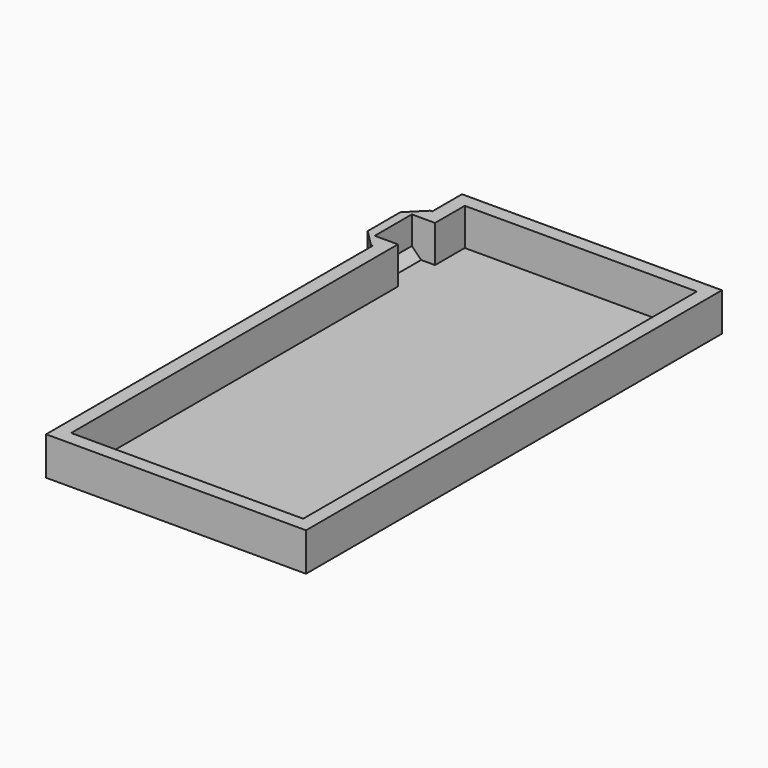
from build123d import *

# Parameters (mm, degrees)
BOX_W           = 28
BOX_H           = 56
BOX_DEPTH       = 0.125
SKETCH004_W     = 1.5
SKETCH004_H     = 45.5
SKETCH004_H_2   = 4
PAD004_DEPTH    = 4
SKETCH005_W     = 28
SKETCH005_H     = 1.5
PAD005_DEPTH    = 4
SKETCH006_W     = 1.5
SKETCH006_H     = 53
PAD006_DEPTH    = 4
SKETCH003_W     = 28
SKETCH003_H     = 1.5
PAD003_DEPTH    = 4
BOX004_W        = 5
BOX004_H        = 5
BOX004_DEPTH    = 5
CHAMFER_SIZE    = 1
BOX002_W        = 2
BOX002_H        = 8
BOX002_DEPTH    = 4.125
CHAMFER001_SIZE = 1.8


with BuildPart() as base:
    # Box → Box (new body)
    with BuildSketch(Plane.XY):
        with Locations((14, 28)):
            Rectangle(BOX_W, BOX_H)
    extrude(amount=BOX_DEPTH)


with BuildPart() as pad004:
    # Sketch004 → Pad004 (new body)
    with BuildSketch(Plane.XY.offset(0.125)):
        with Locations((0.75, 22.75)):
            Rectangle(SKETCH004_W, SKETCH004_H)
        with Locations((0.75, 52.5)):
            Rectangle(SKETCH004_W, SKETCH004_H_2)
    extrude(amount=PAD004_DEPTH)


with BuildPart() as pad005:
    # Sketch005 → Pad005 (new body)
    with BuildSketch(Plane.XY.offset(0.125)):
        with Locations((14, 0.75)):
            Rectangle(SKETCH005_W, SKETCH005_H)
    extrude(amount=PAD005_DEPTH)


with BuildPart() as pad006:
    # Sketch006 → Pad006 (new body)
    with BuildSketch(Plane.XY.offset(0.125)):
        with Locations((27.25, 28)):
            Rectangle(SKETCH006_W, SKETCH006_H)
    extrude(amount=PAD006_DEPTH)


with BuildPart() as walls:
    # Sketch003 → Pad003 (new body)
    with BuildSketch(Plane.XY.offset(0.125)):
        with Locations((14, 55.25)):
            Rectangle(SKETCH003_W, SKETCH003_H)
    extrude(amount=PAD003_DEPTH)

    # Fusion001: union Pad004, Pad005, Pad006
    add(pad004.part)
    add(pad005.part)
    add(pad006.part)


with BuildPart() as chamfer_body:
    # Box004 → Box004 (new body)
    with BuildSketch(Plane(origin=(-1, 45.5, 0.125), x_dir=(1, 0, 0), z_dir=(0, 0, 1))):
        with Locations((2.5, 2.5)):
            Rectangle(BOX004_W, BOX004_H)
    extrude(amount=BOX004_DEPTH)

    # Chamfer
    chamfer_edges = [chamfer_body.edges().sort_by_distance(p)[0] for p in [
        (-1, 48, 0.125),
    ]]
    chamfer(chamfer_edges, length=CHAMFER_SIZE)


with BuildPart() as base_and_walls_do_not_edit:
    # Box002 → Box002 (new body)
    with BuildSketch(Plane(origin=(-2, 44, 0), x_dir=(1, 0, 0), z_dir=(0, 0, 1))):
        with Locations((1, 4)):
            Rectangle(BOX002_W, BOX002_H)
    extrude(amount=BOX002_DEPTH)

    # Chamfer001
    chamfer001_edges = [base_and_walls_do_not_edit.edges().sort_by_distance(p)[0] for p in [
        (-2, 44, 2.0625),
        (-2, 52, 2.0625),
    ]]
    chamfer(chamfer001_edges, length=CHAMFER001_SIZE)

    # Cut: cut Chamfer body
    add(chamfer_body.part, mode=Mode.SUBTRACT)

    # Fusion: union Walls
    add(walls.part)

    # Fusion002: union Base
    add(base.part)


solid = base_and_walls_do_not_edit.part
